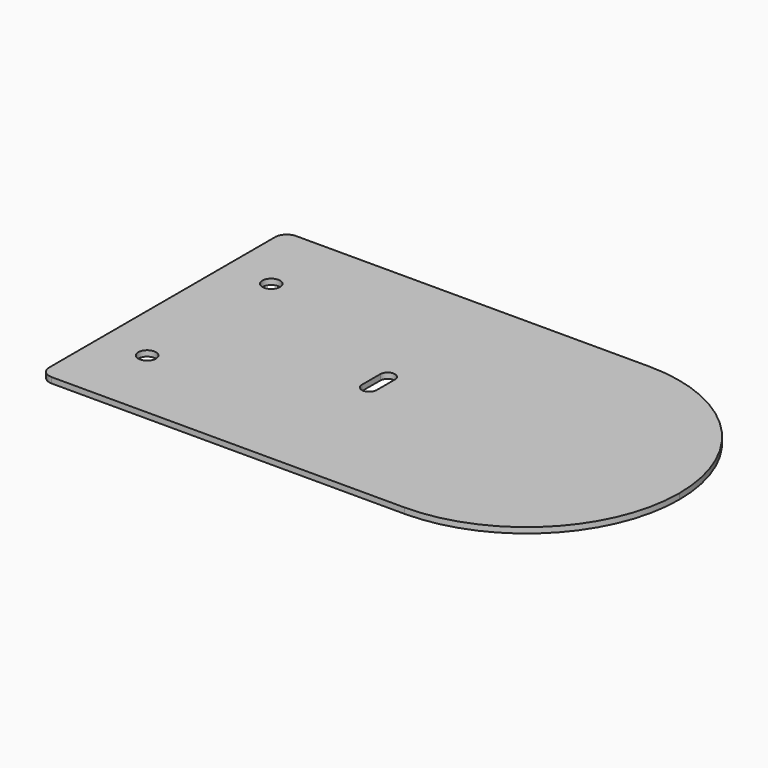
from build123d import *

# Parameters (mm, degrees)
F0_R     = 1.190625
F1_DEPTH = 0.762


with BuildPart() as f1:
    # F0 (on Top) → F1 (new body)
    with BuildSketch(Plane.XY):
        with BuildLine():
            Line((-33.3375, -20.6375), (14.2875, -20.6375))
            ThreePointArc((14.2875, -20.6375), (28.880416, -14.592916), (34.925, 0))
            ThreePointArc((34.925, 0), (28.880416, 14.592916), (14.2875, 20.6375))
            Line((14.2875, 20.6375), (-33.3375, 20.6375))
            ThreePointArc((-33.3375, 20.6375), (-34.460032, 20.172532), (-34.925, 19.05))
            Line((-34.925, 19.05), (-34.925, -19.05))
            ThreePointArc((-34.925, -19.05), (-34.460032, -20.172532), (-33.3375, -20.6375))
        make_face()
        with Locations((-28.575, -10.4775)):
            Circle(F0_R, mode=Mode.SUBTRACT)
        with BuildLine():
            Line((-4.7244, 1.5494), (-4.7244, -1.5494))
            ThreePointArc((-4.7244, -1.5494), (-5.715, -2.54), (-6.7056, -1.5494))
            Line((-6.7056, -1.5494), (-6.7056, 1.5494))
            ThreePointArc((-6.7056, 1.5494), (-5.715, 2.54), (-4.7244, 1.5494))
        make_face(mode=Mode.SUBTRACT)
        with Locations((-28.575, 10.4775)):
            Circle(F0_R, mode=Mode.SUBTRACT)
    extrude(amount=F1_DEPTH)


solid = f1.part
